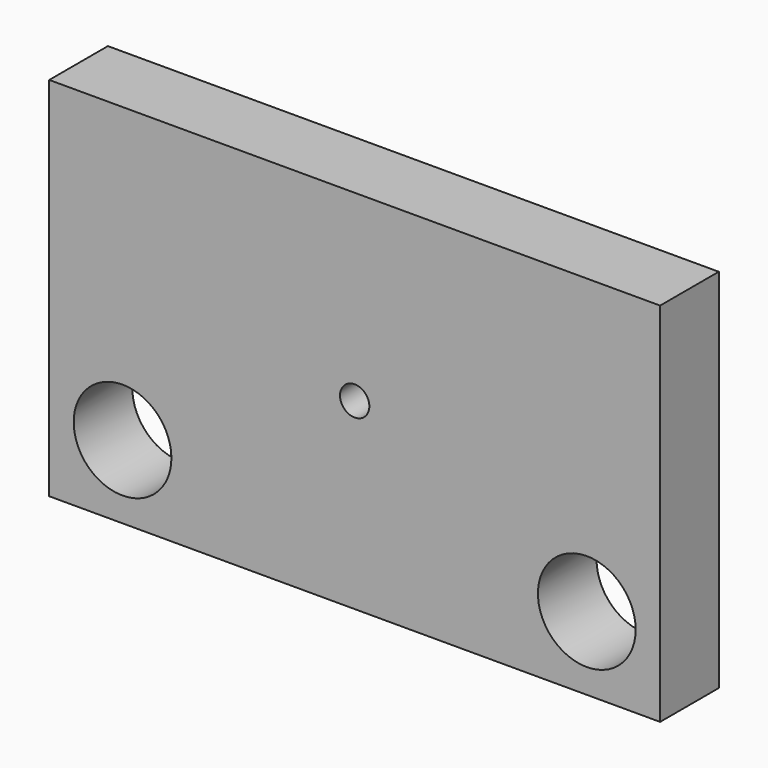
from build123d import *

# Parameters (mm, degrees)
F0_W     = 250
F0_H     = 150
F0_R     = 20
F0_R_2   = 6
F1_DEPTH = 30


with BuildPart() as f1:
    # F0 (on Front) → F1 (new body)
    with BuildSketch(Plane.XZ):
        Rectangle(F0_W, F0_H)
        with Locations((-95, -45)):
            Circle(F0_R, mode=Mode.SUBTRACT)
        with Locations((95, -45)):
            Circle(F0_R, mode=Mode.SUBTRACT)
        Circle(F0_R_2, mode=Mode.SUBTRACT)
    extrude(amount=F1_DEPTH)


solid = f1.part
